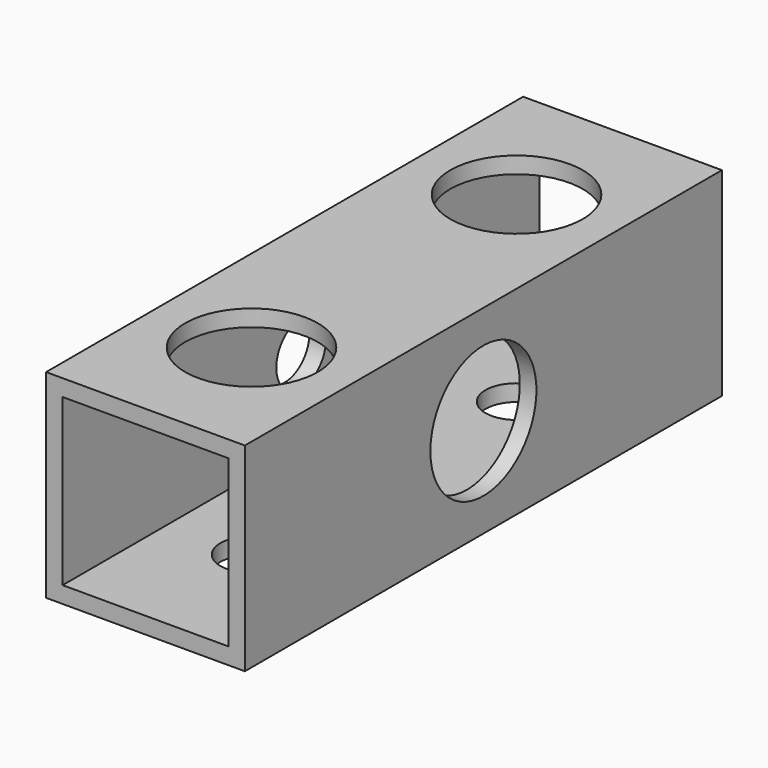
from build123d import *

# Parameters (mm, degrees)
F0_W     = 19.05
F0_H     = 19.05
F0_W_2   = 15.875
F0_H_2   = 15.875
F1_DEPTH = 57.15
F3_D     = 5.953125
F3_DEPTH = 6.35
F5_D     = 12.7
F5_DEPTH = 6.35
F7_D     = 12.7
F7_DEPTH = 6.35
F9_D     = 5.953125
F9_DEPTH = 6.35


with BuildPart() as f1:
    # F0 (on Front) → F1 (new body)
    with BuildSketch(Plane.XZ):
        Rectangle(F0_W, F0_H)
        Rectangle(F0_W_2, F0_H_2, mode=Mode.SUBTRACT)
    extrude(amount=F1_DEPTH)

    # F3
    with Locations(Plane(origin=(0, 0, -9.525), x_dir=(1, 0, 0), z_dir=(0, 0, -1))):
        with Locations((0, 44.45), (0, 12.7)):
            Hole(F3_D / 2, depth=F3_DEPTH)

    # F5
    with Locations(Plane.XY.offset(9.525)):
        with Locations((0, -12.7), (0, -44.45)):
            Hole(F5_D / 2, depth=F5_DEPTH)

    # F7
    with Locations(Plane.YZ.offset(9.525)):
        with Locations((-28.575, 0)):
            Hole(F7_D / 2, depth=F7_DEPTH)

    # F9
    with Locations(Plane(origin=(-9.525, 0, 0), x_dir=(0, -1, 0), z_dir=(-1, 0, 0))):
        with Locations((28.575, 0)):
            Hole(F9_D / 2, depth=F9_DEPTH)


solid = f1.part
